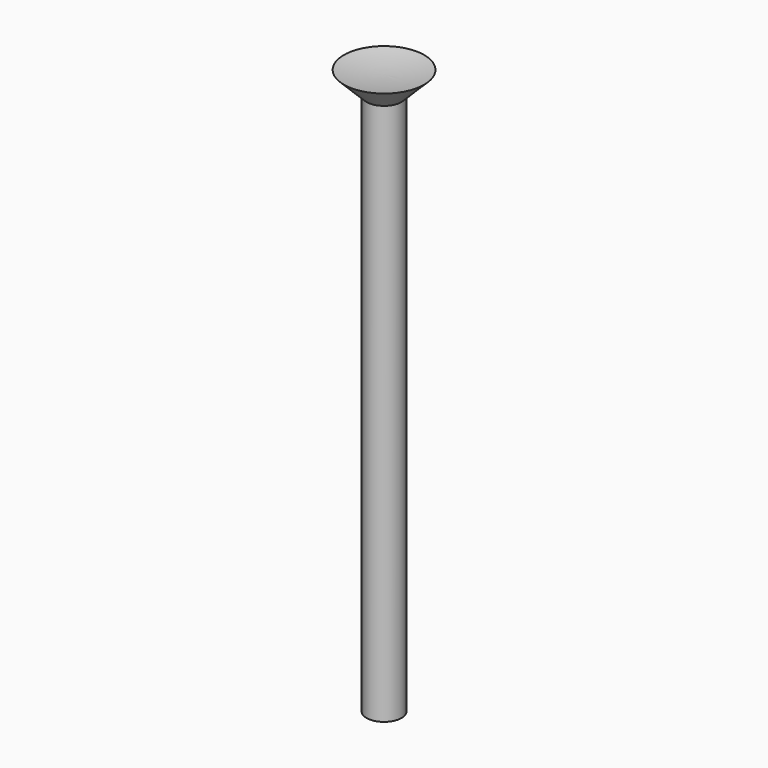
from build123d import *

# Parameters (mm, degrees)
F0_R     = 5.5372
F1_DEPTH = 44.45
F2_R     = 5.5372
F3_DEPTH = 127


with BuildPart() as f1:
    # F0 (on Top) → F1 (new body)
    with BuildSketch(Plane.XY):
        Circle(F0_R)
    extrude(amount=F1_DEPTH)

    # F2 (on face) → F3 (join)
    with BuildSketch(Plane.XY.offset(44.45)):
        Circle(F2_R)
    extrude(amount=F3_DEPTH)

    # F5 (on Front) → F6 (revolve)
    with BuildSketch(Plane.XZ):
        with BuildLine():
            ThreePointArc((12.7, 178.6128), (6.381671, 177.66109), (0, 177.3428))
            Line((0, 177.3428), (0, 171.45))
            Line((0, 171.45), (5.5372, 171.45))
            Line((5.5372, 171.45), (12.7, 178.6128))
        make_face()
    revolve(axis=Axis((0, 0, 177.20714), (0, 0, 1)))


solid = f1.part
